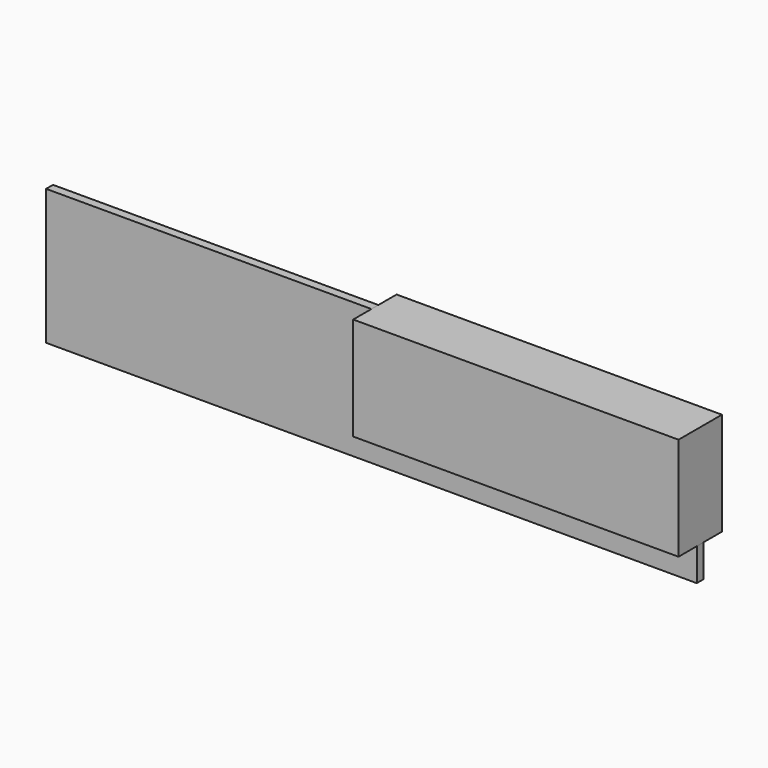
from build123d import *

# Parameters (mm, degrees)
F0_W     = 240
F0_H     = 50
F2_DEPTH = 1.6
F1_W     = 120
F1_H     = 38
F3_DEPTH = 10


with BuildPart() as f2:
    # F0 (on Front) → F2 (new body, symmetric)
    with BuildSketch(Plane.XZ):
        with Locations((120, -25)):
            Rectangle(F0_W, F0_H)
    extrude(amount=F2_DEPTH, both=True)


with BuildPart() as f3:
    # F1 (on face) → F3 (new body, symmetric)
    with BuildSketch(Plane.XZ):
        with Locations((180, -19)):
            Rectangle(F1_W, F1_H)
    extrude(amount=F3_DEPTH, both=True)


solid = Compound([f2.part, f3.part])
